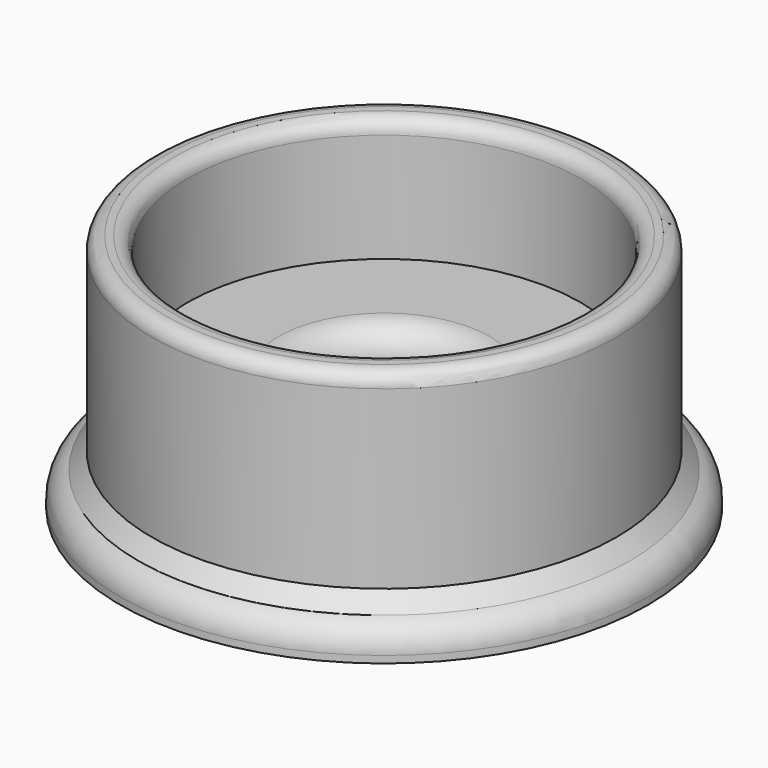
from build123d import *

# Parameters (mm, degrees)
SKETCH_R        = 33
PAD_DEPTH       = 34
SKETCH001_R     = 28
POCKET_DEPTH    = 17.5
SKETCH002_R     = 11
POCKET001_DEPTH = 15.5
SKETCH003_R     = 37.5
SKETCH003_R_2   = 25
PAD001_DEPTH    = 5
FILLET_R        = 4
CHAMFER_SIZE    = 2
FILLET001_R     = 2
FILLET002_R     = 2
FILLET003_R     = 4


with BuildPart() as part:
    # Sketch → Pad (new body)
    with BuildSketch(Plane.XY):
        Circle(SKETCH_R)
    extrude(amount=PAD_DEPTH)

    # Sketch001 (on Face3 of Pad) → Pocket (cut)
    with BuildSketch(Plane.XY.offset(34)):
        Circle(SKETCH001_R)
    extrude(amount=-POCKET_DEPTH, mode=Mode.SUBTRACT)

    # Sketch002 (on Face5 of Pocket) → Pocket001 (cut)
    with BuildSketch(Plane.XY.offset(16.5)):
        Circle(SKETCH002_R)
    extrude(amount=-POCKET001_DEPTH, mode=Mode.SUBTRACT)

    # Sketch003 (on Face2 of Pocket001) → Pad001 (join)
    with BuildSketch(Plane(origin=(0, 0, 0), x_dir=(1, 0, 0), z_dir=(0, 0, -1))):
        Circle(SKETCH003_R)
        Circle(SKETCH003_R_2, mode=Mode.SUBTRACT)
    extrude(amount=-PAD001_DEPTH)

    # Fillet
    fillet_edges = [part.edges().sort_by_distance(p)[0] for p in [
        (-37.5, 0, 5),
    ]]
    fillet(fillet_edges, radius=FILLET_R)

    # Chamfer
    chamfer_edges = [part.edges().sort_by_distance(p)[0] for p in [
        (-33, 0, 5),
    ]]
    chamfer(chamfer_edges, length=CHAMFER_SIZE)

    # Fillet001
    fillet001_edges = [part.edges().sort_by_distance(p)[0] for p in [
        (-33, 0, 34),
    ]]
    fillet(fillet001_edges, radius=FILLET001_R)

    # Fillet002
    fillet002_edges = [part.edges().sort_by_distance(p)[0] for p in [
        (-28, 0, 34),
    ]]
    fillet(fillet002_edges, radius=FILLET002_R)

    # Fillet003
    fillet003_edges = [part.edges().sort_by_distance(p)[0] for p in [
        (-11, 0, 16.5),
    ]]
    fillet(fillet003_edges, radius=FILLET003_R)


solid = part.part
